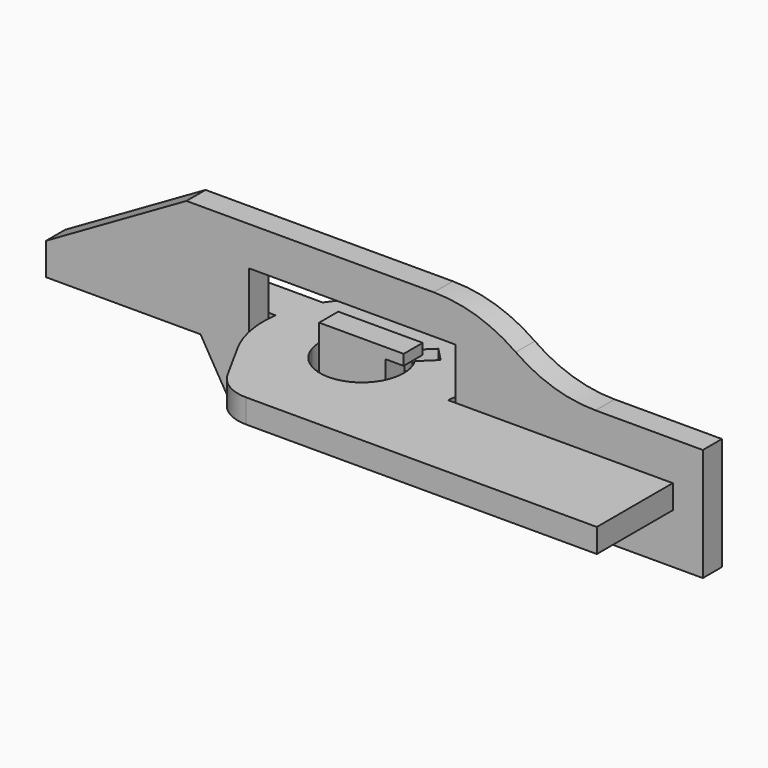
from build123d import *

# Parameters (mm, degrees)
F0_W     = 82.55
F0_H     = 57.15
F1_DEPTH = 1.5
F3_DEPTH = 25.4
F5_DEPTH = 3
F6_R     = 5.08
F8_DEPTH = 25.4


with BuildPart() as f1:
    # F0 (on Front) → F1 (new body, symmetric)
    with BuildSketch(Plane.XZ):
        Rectangle(F0_W, F0_H)
    extrude(amount=F1_DEPTH, both=True)

    # F2 (on face) → F3 (cut)
    with BuildSketch(Plane.XZ.offset(1.5)):
        with BuildLine():
            Line((41.275, 28.575), (-41.275, 28.575))
            Line((-41.275, 28.575), (-41.275, 0))
            Line((-41.275, 0), (-23.6307755113, 0))
            Line((-23.6307755113, 0), (7.4471277827, 0))
            ThreePointArc((7.4471277827, 0), (12.856772021, -0.8373450289), (17.7601050455, -3.2710094949))
            ThreePointArc((17.7601050455, -3.2710094949), (22.5296158975, -5.6382541879), (27.7916196756, -6.4527463267))
            Line((27.7916196756, -6.4527463267), (41.275, -6.4527463267))
            Line((41.275, -6.4527463267), (41.275, 28.575))
        make_face()
        Polygon((-21.8661062664, -14.1818345485), (-41.275, -14.1818345485), (-41.275, -28.575), (41.275, -28.575), (41.275, -20.6253529236), (-18.0511887433, -20.6253529236), align=None)
        Polygon((-2.7842603665, -4.8976809679), (-15.74646855, -4.8976809679), (-15.74646855, -10.6753705962), (-15.74646855, -14.1818345485), (-6.9498603665, -14.1818345485), (-6.9498603665, -9.3729560225), (-6.9498603665, -8.042470455), (-2.7842603665, -8.042470455), align=None)
        Polygon((-23.6307755113, 0), (-41.275, 0), (-41.275, -10.1419957355), align=None)
        Polygon((10.1779478169, -4.8976809679), (-2.7842603665, -4.8976809679), (-2.7842603665, -8.042470455), (3.6673396335, -8.042470455), (3.6673396335, -9.3729560225), (1.3813396335, -9.3729560225), (1.3813396335, -14.1818345485), (10.1779478169, -14.1818345485), align=None)
    extrude(amount=-F3_DEPTH, mode=Mode.SUBTRACT)


with BuildPart() as f5:
    # F4 (on face) → F5 (new body)
    with BuildSketch(Plane.XY.offset(-14.1818345485)):
        with BuildLine():
            Line((-41.2661683759, 1.7493753928), (-15.0268845477, 1.7493753928))
            ThreePointArc((-15.0268845477, 1.7493753928), (-14.3550164783, 4.3657489743), (-13.1311116511, 6.7738341875))
            Line((-13.1311116511, 6.7738341875), (-26.6073276859, 6.7738341875))
            Line((-26.6073276859, 6.7738341875), (-41.2661683759, 4.3170175823))
            Line((-41.2661683759, 4.3170175823), (-41.2661683759, 1.7493753928))
        make_face()
        with BuildLine():
            ThreePointArc((9.4582745469, -1.75), (-0.5723679095, -12.1675672533), (-13.6276444456, -5.9466951174))
            Line((-13.6276444456, -5.9466951174), (-9.3881528649, -13.6771125344))
            Line((-9.3881528649, -13.6771125344), (37.6951355663, -13.6771125344))
            Line((37.6951355663, -13.6771125344), (37.6951355663, -1.75))
            Line((37.6951355663, -1.75), (9.4582745469, -1.75))
        make_face()
        with BuildLine():
            ThreePointArc((-15.0268845477, 1.7493753928), (-15.0440433144, 1.6247717304), (-15.0599339165, 1.5))
            Line((-15.0599339165, 1.5), (-7.8221495184, 1.5))
            ThreePointArc((-7.8221495184, 1.5), (-2.0263402916, 5.2015271091), (2.4721953887, 0))
            ThreePointArc((2.4721953887, 0), (-2.0263402916, -5.2015271091), (-7.8221495184, -1.5))
            Line((-7.8221495184, -1.5), (-15.0599339165, -1.5))
            ThreePointArc((-15.0599339165, -1.5), (-14.5556655834, -3.7915933755), (-13.6276444456, -5.9466951174))
            ThreePointArc((-13.6276444456, -5.9466951174), (-0.5723679095, -12.1675672533), (9.4582745469, -1.75))
            ThreePointArc((9.4582745469, -1.75), (9.5515681239, -0.877209531), (9.5827182906, 0))
            ThreePointArc((9.5827182906, 0), (0.7500622065, 11.8511908708), (-13.1311116511, 6.7738341875))
            ThreePointArc((-13.1311116511, 6.7738341875), (-14.3550164783, 4.3657489743), (-15.0268845477, 1.7493753928))
        make_face()
        with BuildLine():
            Line((-7.8221495184, 1.5), (-15.0599339165, 1.5))
            ThreePointArc((-15.0599339165, 1.5), (-15.1512390236, 0), (-15.0599339165, -1.5))
            Line((-15.0599339165, -1.5), (-7.8221495184, -1.5))
            ThreePointArc((-7.8221495184, -1.5), (-8.0407161217, 0), (-7.8221495184, 1.5))
        make_face()
    extrude(amount=F5_DEPTH)

    # F6
    f6_edges = [f5.edges().sort_by_distance(p)[0] for p in [
        (-9.388153, -13.677113, -12.681835),
    ]]
    fillet(f6_edges, radius=F6_R)

    # F7 (on face) → F8 (cut)
    with BuildSketch(Plane.XY.offset(-11.1818345485)):
        with BuildLine():
            ThreePointArc((0.9950713413, 3.6533517418), (1.3918603451, 3.1922316502), (1.7327154988, 2.688355657))
            Line((1.7327154988, 2.688355657), (3.5589465154, 4.4537112229))
            Line((3.5589465154, 4.4537112229), (2.7204026217, 5.3211709558))
            Line((2.7204026217, 5.3211709558), (0.9950713413, 3.6533517418))
        make_face()
        with BuildLine():
            Line((1.8818587279, 6.1886306887), (0.0556277112, 4.4232751228))
            ThreePointArc((0.0556277112, 4.4232751228), (0.5476629738, 4.0655398118), (0.9950713413, 3.6533517418))
            Line((0.9950713413, 3.6533517418), (2.7204026217, 5.3211709558))
            Line((2.7204026217, 5.3211709558), (1.8818587279, 6.1886306887))
        make_face()
    extrude(amount=-F8_DEPTH, mode=Mode.SUBTRACT)


solid = Compound([f1.part, f5.part])
